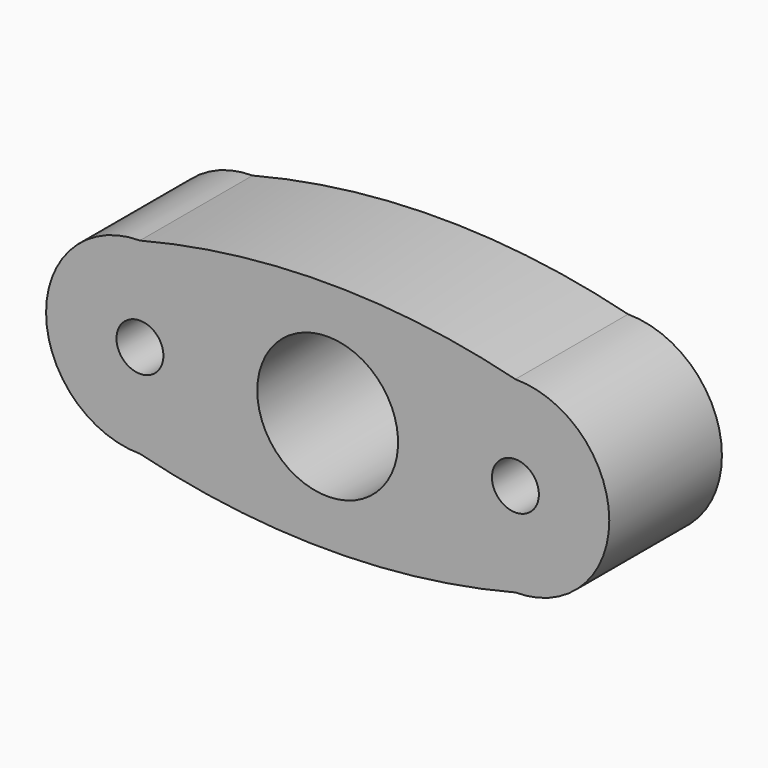
from build123d import *

# Parameters (mm, degrees)
F0_W     = 50.8
F0_H     = 25.4
F1_DEPTH = 19.05
F2_D     = 19.05
F4_D     = 6.35


with BuildPart() as f1:
    # F0 (on Front) → F1 (new body)
    with BuildSketch(Plane.XZ):
        Rectangle(F0_W, F0_H)
        with BuildLine():
            ThreePointArc((25.4, -12.7), (38.1, 0), (25.4, 12.7))
            Line((25.4, 12.7), (25.4, -12.7))
        make_face()
        with BuildLine():
            Line((-25.4, 12.7), (25.4, 12.7))
            ThreePointArc((25.4, 12.7), (0, 15.875), (-25.4, 12.7))
        make_face()
        with BuildLine():
            Line((-25.4, -12.7), (-25.4, 12.7))
            ThreePointArc((-25.4, 12.7), (-38.1, 0), (-25.4, -12.7))
        make_face()
        with BuildLine():
            ThreePointArc((-25.4, -12.7), (0, -15.875), (25.4, -12.7))
            Line((25.4, -12.7), (-25.4, -12.7))
        make_face()
    extrude(amount=F1_DEPTH)

    # F2 (through all)
    with Locations(Plane(origin=(0, 0, 0), x_dir=(1, 0, 0), z_dir=(0, 1, 0))):
        with Locations((0, 0)):
            Hole(F2_D / 2)

    # F4 (through all)
    with Locations(Plane.XZ.offset(19.05)):
        with Locations((-25.4, 0), (25.4, 0)):
            Hole(F4_D / 2)


solid = f1.part
